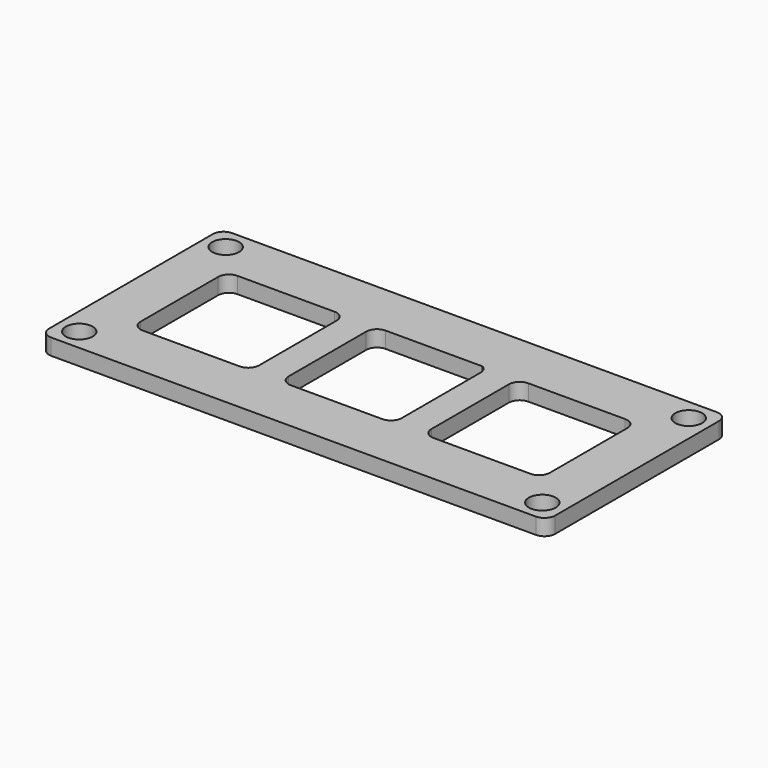
from build123d import *

# Parameters (mm, degrees)
F0_R     = 2.5
F1_DEPTH = 3


with BuildPart() as f1:
    # F0 (on Top) → F1 (new body)
    with BuildSketch(Plane.XY):
        with BuildLine():
            Line((-43, 0), (47, 0))
            ThreePointArc((47, 0), (48.414214, 0.585786), (49, 2))
            Line((49, 2), (49, 40))
            ThreePointArc((49, 40), (48.414214, 41.414214), (47, 42))
            Line((47, 42), (-43, 42))
            ThreePointArc((-43, 42), (-44.414214, 41.414214), (-45, 40))
            Line((-45, 40), (-45, 2))
            ThreePointArc((-45, 2), (-44.414214, 0.585786), (-43, 0))
        make_face()
        with Locations((-41, 4)):
            Circle(F0_R, mode=Mode.SUBTRACT)
        with Locations((45, 4)):
            Circle(F0_R, mode=Mode.SUBTRACT)
        with BuildLine():
            ThreePointArc((-36, 30), (-35.414214, 31.414214), (-34, 32))
            Line((-34, 32), (-16, 32))
            ThreePointArc((-16, 32), (-14.585786, 31.414214), (-14, 30))
            Line((-14, 30), (-14, 12))
            ThreePointArc((-14, 12), (-14.585786, 10.585786), (-16, 10))
            Line((-16, 10), (-34, 10))
            ThreePointArc((-34, 10), (-35.414214, 10.585786), (-36, 12))
            Line((-36, 12), (-36, 30))
        make_face(mode=Mode.SUBTRACT)
        with Locations((-41, 38)):
            Circle(F0_R, mode=Mode.SUBTRACT)
        with BuildLine():
            ThreePointArc((-8.5, 30), (-7.914214, 31.414214), (-6.5, 32))
            Line((-6.5, 32), (11.5, 32))
            ThreePointArc((11.5, 32), (12.232051, 31.267949), (12.5, 30.267949))
            Line((12.5, 30.267949), (12.5, 12))
            ThreePointArc((12.5, 12), (11.914214, 10.585786), (10.5, 10))
            Line((10.5, 10), (-6.5, 10))
            ThreePointArc((-6.5, 10), (-7.914214, 10.585786), (-8.5, 12))
            Line((-8.5, 12), (-8.5, 30))
        make_face(mode=Mode.SUBTRACT)
        with BuildLine():
            ThreePointArc((18, 30), (18.585786, 31.414214), (20, 32))
            Line((20, 32), (38, 32))
            ThreePointArc((38, 32), (39.414214, 31.414214), (40, 30))
            Line((40, 30), (40, 12))
            ThreePointArc((40, 12), (39.414214, 10.585786), (38, 10))
            Line((38, 10), (20, 10))
            ThreePointArc((20, 10), (18.585786, 10.585786), (18, 12))
            Line((18, 12), (18, 30))
        make_face(mode=Mode.SUBTRACT)
        with Locations((45, 38)):
            Circle(F0_R, mode=Mode.SUBTRACT)
    extrude(amount=F1_DEPTH)


solid = f1.part
